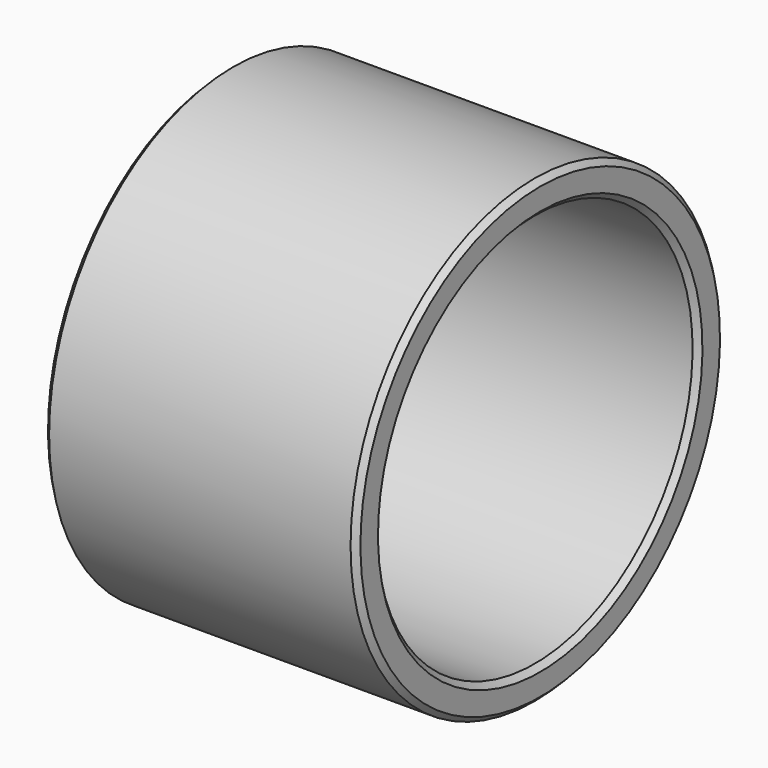
from build123d import *

# Parameters (mm, degrees)
F0_W    = 28.5
F0_H    = 3
F2_SIZE = 0.5


with BuildPart() as f1:
    # F0 (on Front) → F1 (revolve)
    with BuildSketch(Plane.XZ):
        with Locations((8.048779, 19.5)):
            Rectangle(F0_W, F0_H)
    revolve(axis=Axis((4.22471, 0, 0), (1, 0, 0)))

    # F2
    f2_edges = [f1.edges().sort_by_distance(p)[0] for p in [
        (22.298779, 0, -21),
        (-6.201221, 0, -21),
        (8.048779, 0, 21),
        (-6.201221, 0, -18),
        (22.298779, 0, -18),
        (8.048779, 0, 18),
    ]]
    chamfer(f2_edges, length=F2_SIZE)


solid = f1.part
